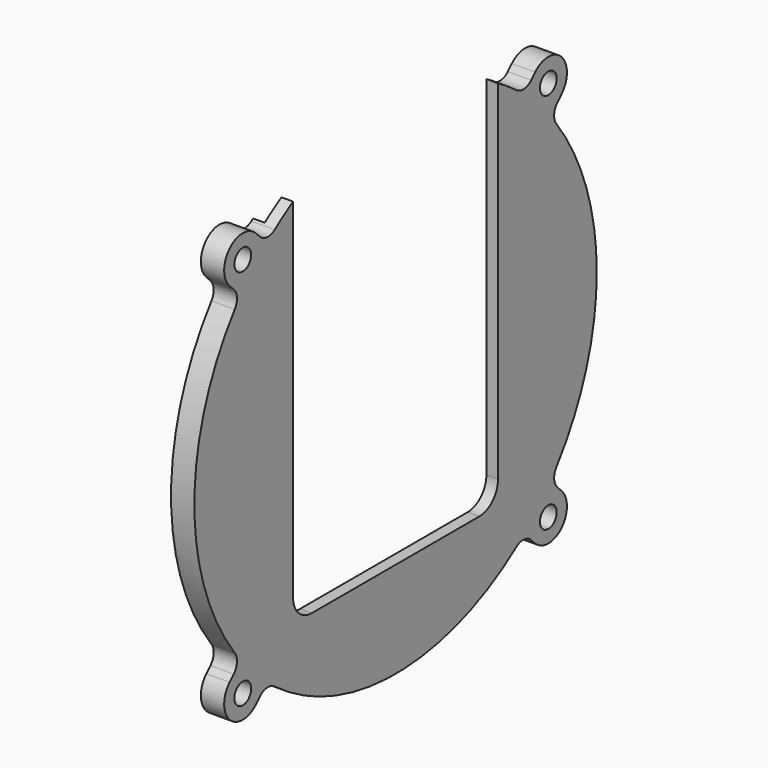
from build123d import *

# Parameters (mm, degrees)
F0_R     = 2.25
F1_DEPTH = 5
F4_W     = 2.5
F4_H     = 5.5


with BuildPart() as f1:
    # F0 (on Right) → F1 (new body)
    with BuildSketch(Plane.YZ):
        with BuildLine():
            ThreePointArc((-27.5, 46.4731105049), (-30.0189515962, 44.8872202867), (-32.4466916485, 43.1649418054))
            ThreePointArc((-32.4466916485, 43.1649418054), (-38.1837661841, 38.1837661841), (-43.1649418054, 32.4466916485))
            ThreePointArc((-43.1649418054, 32.4466916485), (-54, 0), (-43.1649418054, -32.4466916485))
            ThreePointArc((-43.1649418054, -32.4466916485), (-38.1837661841, -38.1837661841), (-32.4466916485, -43.1649418054))
            ThreePointArc((-32.4466916485, -43.1649418054), (0, -54), (32.4466916485, -43.1649418054))
            ThreePointArc((32.4466916485, -43.1649418054), (38.1837661841, -38.1837661841), (43.1649418054, -32.4466916485))
            ThreePointArc((43.1649418054, -32.4466916485), (51.2196586161, -17.1039928453), (54, 0))
            ThreePointArc((54, 0), (51.2196586161, 17.1039928453), (43.1649418054, 32.4466916485))
            ThreePointArc((43.1649418054, 32.4466916485), (38.1837661841, 38.1837661841), (32.4466916485, 43.1649418054))
            ThreePointArc((32.4466916485, 43.1649418054), (30.0189515962, 44.8872202867), (27.5, 46.4731105049))
            Line((27.5, 46.4731105049), (27.5, -28.3578620553))
            ThreePointArc((27.5, -28.3578620553), (26.0355339059, -31.8933959612), (22.5, -33.3578620553))
            Line((22.5, -33.3578620553), (-22.5, -33.3578620553))
            ThreePointArc((-22.5, -33.3578620553), (-26.0355339059, -31.8933959612), (-27.5, -28.3578620553))
            Line((-27.5, -28.3578620553), (-27.5, 46.4731105049))
        make_face()
        with BuildLine():
            ThreePointArc((-43.1649418054, 32.4466916485), (-38.1837661841, 38.1837661841), (-32.4466916485, 43.1649418054))
            ThreePointArc((-32.4466916485, 43.1649418054), (-34.4603348429, 42.5704269643), (-36.3706059725, 43.4416737844))
            Line((-36.3706059725, 43.4416737844), (-37.4644660941, 44.5355339059))
            ThreePointArc((-37.4644660941, 44.5355339059), (-44.5355339059, 44.5355339059), (-44.5355339059, 37.4644660941))
            Line((-44.5355339059, 37.4644660941), (-43.4416737844, 36.3706059725))
            ThreePointArc((-43.4416737844, 36.3706059725), (-42.5704269643, 34.4603348429), (-43.1649418054, 32.4466916485))
        make_face()
        with Locations((-41, 41)):
            Circle(F0_R, mode=Mode.SUBTRACT)
        with BuildLine():
            ThreePointArc((-32.4466916485, -43.1649418054), (-38.1837661841, -38.1837661841), (-43.1649418054, -32.4466916485))
            ThreePointArc((-43.1649418054, -32.4466916485), (-42.5704269643, -34.4603348429), (-43.4416737844, -36.3706059725))
            Line((-43.4416737844, -36.3706059725), (-44.5355339059, -37.4644660941))
            ThreePointArc((-44.5355339059, -37.4644660941), (-44.5355339059, -44.5355339059), (-37.4644660941, -44.5355339059))
            Line((-37.4644660941, -44.5355339059), (-36.3706059725, -43.4416737844))
            ThreePointArc((-36.3706059725, -43.4416737844), (-34.4603348429, -42.5704269643), (-32.4466916485, -43.1649418054))
        make_face()
        with Locations((-41, -41)):
            Circle(F0_R, mode=Mode.SUBTRACT)
        with BuildLine():
            ThreePointArc((43.1649418054, -32.4466916485), (38.1837661841, -38.1837661841), (32.4466916485, -43.1649418054))
            ThreePointArc((32.4466916485, -43.1649418054), (34.4603348429, -42.5704269643), (36.3706059725, -43.4416737844))
            Line((36.3706059725, -43.4416737844), (37.4644660941, -44.5355339059))
            ThreePointArc((37.4644660941, -44.5355339059), (44.5355339059, -44.5355339059), (44.5355339059, -37.4644660941))
            Line((44.5355339059, -37.4644660941), (43.4416737844, -36.3706059725))
            ThreePointArc((43.4416737844, -36.3706059725), (42.5704269643, -34.4603348429), (43.1649418054, -32.4466916485))
        make_face()
        with Locations((41, -41)):
            Circle(F0_R, mode=Mode.SUBTRACT)
        with BuildLine():
            ThreePointArc((32.4466916485, 43.1649418054), (38.1837661841, 38.1837661841), (43.1649418054, 32.4466916485))
            ThreePointArc((43.1649418054, 32.4466916485), (42.5704269643, 34.4603348429), (43.4416737844, 36.3706059725))
            Line((43.4416737844, 36.3706059725), (44.5355339059, 37.4644660941))
            ThreePointArc((44.5355339059, 37.4644660941), (44.5355339059, 44.5355339059), (37.4644660941, 44.5355339059))
            Line((37.4644660941, 44.5355339059), (36.3706059725, 43.4416737844))
            ThreePointArc((36.3706059725, 43.4416737844), (34.4603348429, 42.5704269643), (32.4466916485, 43.1649418054))
        make_face()
        with Locations((41, 41)):
            Circle(F0_R, mode=Mode.SUBTRACT)
    extrude(amount=F1_DEPTH)

    # F5: sweep along a path in F5_path
    with BuildLine(Plane(origin=(5, 27.5, 46.4731105049), x_dir=(0, 0, -1), z_dir=(-1, 0, 0))) as f5_path:
        Line((0, 0), (74.8309725602, 0))
        ThreePointArc((74.8309725602, 0), (78.3665064661, 1.4644660941), (79.8309725602, 5))
        Line((79.8309725602, 5), (79.8309725602, 50))
        ThreePointArc((79.8309725602, 50), (78.3665064661, 53.5355339059), (74.8309725602, 55))
        Line((74.8309725602, 55), (0, 55))
    # F4 (on plane+point) → F5 (sweep, cut)
    with BuildSketch(Plane.XY.offset(46.4731105049)):
        with Locations((1.25, 29.25)):
            Rectangle(F4_W, F4_H)
    sweep(path=f5_path.line, mode=Mode.SUBTRACT)


solid = f1.part
